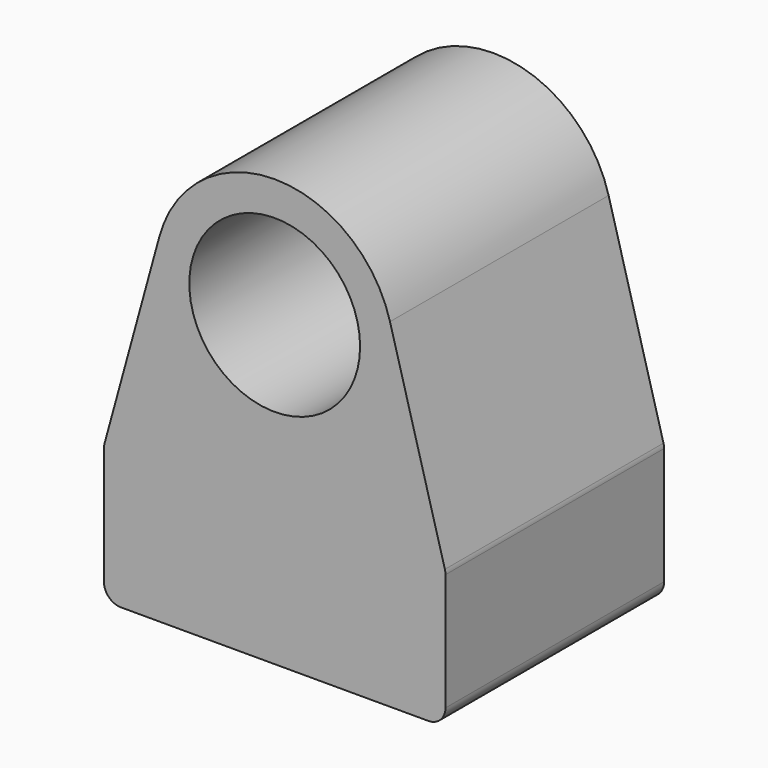
from build123d import *

# Parameters (mm, degrees)
F0_R     = 25
F1_DEPTH = 80
F2_R     = 5


with BuildPart() as f1:
    # F0 (on Front) → F1 (new body)
    with BuildSketch(Plane.XZ):
        with BuildLine():
            Line((0, 40), (0, 0))
            Line((0, 0), (100, 0))
            Line((100, 0), (100, 40))
            Line((100, 40), (83.75436, 99.25436))
            ThreePointArc((83.75436, 99.25436), (50, 125), (16.24564, 99.25436))
            Line((16.24564, 99.25436), (0, 40))
        make_face()
        with Locations((50, 90)):
            Circle(F0_R, mode=Mode.SUBTRACT)
    extrude(amount=F1_DEPTH)

    # F2
    f2_edges = [f1.edges().sort_by_distance(p)[0] for p in [
        (0, -40, 40),
        (100, -40, 40),
        (100, -40, 0),
        (0, -40, 0),
    ]]
    fillet(f2_edges, radius=F2_R)


solid = f1.part
